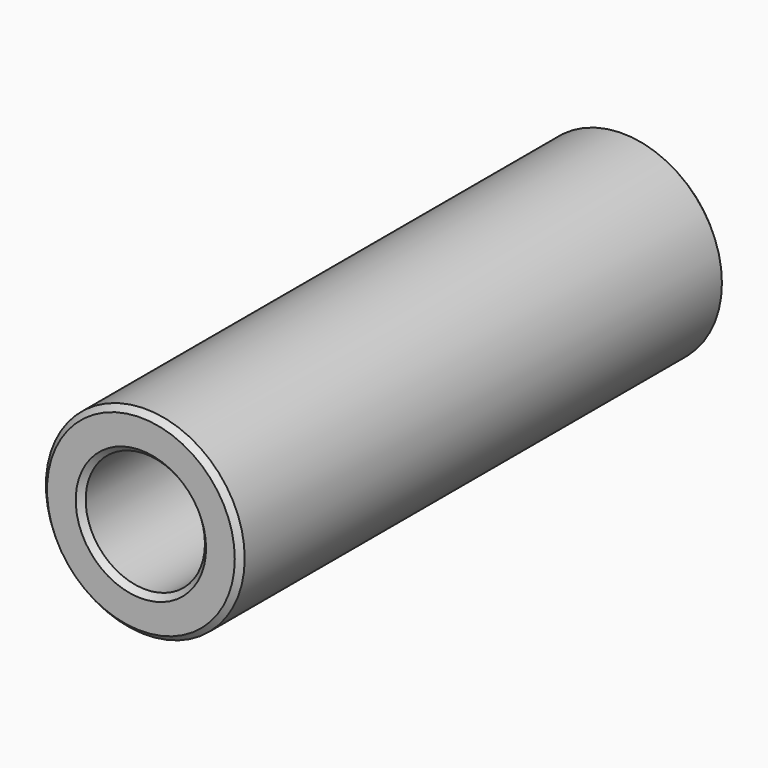
from build123d import *

# Parameters (mm, degrees)
F0_R     = 11.43
F0_R_2   = 6.858
F1_DEPTH = 69.85
F2_SIZE  = 0.635


with BuildPart() as f1:
    # F0 (on Front) → F1 (new body)
    with BuildSketch(Plane.XZ):
        Circle(F0_R)
        Circle(F0_R_2, mode=Mode.SUBTRACT)
    extrude(amount=F1_DEPTH)

    # F2
    f2_edges = [f1.edges().sort_by_distance(p)[0] for p in [
        (-6.858, -69.85, 0),
        (-11.43, -69.85, 0),
        (-11.43, 0, 0),
        (6.858, -34.925, 0),
        (-6.858, 0, 0),
    ]]
    chamfer(f2_edges, length=F2_SIZE)


solid = f1.part
